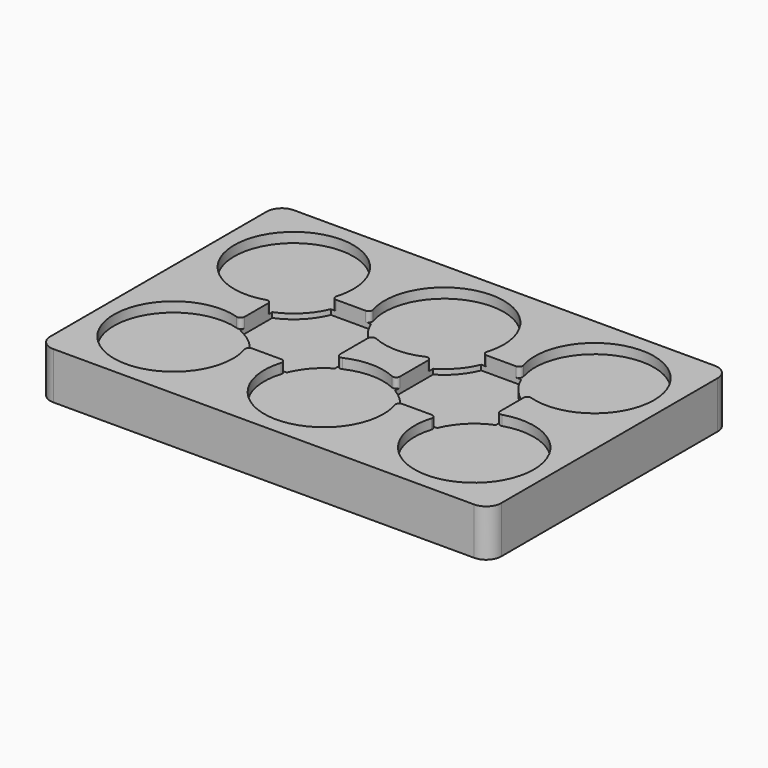
from build123d import *

# Parameters (mm, degrees)
F1_DEPTH = 15.875
F2_DEPTH = 3.3528
F3_DEPTH = 5.08
F4_R     = 5.08
F5_R     = 1.27


with BuildPart() as f1:
    # F0 (on Top) → F1 (new body)
    with BuildSketch(Plane.XY):
        Polygon((0, 25.4), (0, 0), (33.02, 0), (66.04, 0), (76.2, 0), (86.36, 0), (119.38, 0), (152.4, 0), (152.4, 33.02), (152.4, 68.58), (152.4, 101.6), (127, 101.6), (76.2, 101.6), (25.4, 101.6), (0, 101.6), (0, 76.2), align=None)
        with BuildLine():
            ThreePointArc((44.0314886751, 33.02), (45.151447055, 29.2829253769), (45.5295, 25.4))
            ThreePointArc((45.5295, 25.4), (8.6879749843, 14.179260714), (33.02, 44.0314886751))
            Line((33.02, 44.0314886751), (33.02, 57.5685113249))
            ThreePointArc((33.02, 57.5685113249), (8.6879749843, 87.420739286), (45.5295, 76.2))
            ThreePointArc((45.5295, 76.2), (45.151447055, 72.3170746231), (44.0314886751, 68.58))
            Line((44.0314886751, 68.58), (57.5685113249, 68.58))
            ThreePointArc((57.5685113249, 68.58), (72.3170746231, 95.951447055), (96.3295, 76.2))
            ThreePointArc((96.3295, 76.2), (95.951447055, 72.3170746231), (94.8314886751, 68.58))
            Line((94.8314886751, 68.58), (108.3685113249, 68.58))
            ThreePointArc((108.3685113249, 68.58), (123.1170746231, 95.951447055), (147.1295, 76.2))
            ThreePointArc((147.1295, 76.2), (138.220739286, 59.4879749843), (119.38, 57.5685113249))
            Line((119.38, 57.5685113249), (119.38, 44.0314886751))
            ThreePointArc((119.38, 44.0314886751), (138.220739286, 42.1120250157), (147.1295, 25.4))
            ThreePointArc((147.1295, 25.4), (123.1170746231, 5.648552945), (108.3685113249, 33.02))
            Line((108.3685113249, 33.02), (94.8314886751, 33.02))
            ThreePointArc((94.8314886751, 33.02), (95.951447055, 29.2829253769), (96.3295, 25.4))
            ThreePointArc((96.3295, 25.4), (72.3170746231, 5.648552945), (57.5685113249, 33.02))
            Line((57.5685113249, 33.02), (44.0314886751, 33.02))
        make_face(mode=Mode.SUBTRACT)
        with BuildLine():
            ThreePointArc((45.5295, 76.2), (8.6879749843, 87.420739286), (33.02, 57.5685113249))
            ThreePointArc((33.02, 57.5685113249), (39.6337059519, 61.9662940481), (44.0314886751, 68.58))
            ThreePointArc((44.0314886751, 68.58), (45.151447055, 72.3170746231), (45.5295, 76.2))
        make_face()
        with BuildLine():
            ThreePointArc((33.02, 44.0314886751), (8.6879749843, 14.179260714), (45.5295, 25.4))
            ThreePointArc((45.5295, 25.4), (45.151447055, 29.2829253769), (44.0314886751, 33.02))
            ThreePointArc((44.0314886751, 33.02), (39.6337059519, 39.6337059519), (33.02, 44.0314886751))
        make_face()
        with BuildLine():
            ThreePointArc((66.04, 42.7773176943), (61.0000405534, 38.5968936902), (57.5685113249, 33.02))
            ThreePointArc((57.5685113249, 33.02), (72.3170746231, 5.648552945), (96.3295, 25.4))
            ThreePointArc((96.3295, 25.4), (95.951447055, 29.2829253769), (94.8314886751, 33.02))
            ThreePointArc((94.8314886751, 33.02), (91.3999594466, 38.5968936902), (86.36, 42.7773176943))
            ThreePointArc((86.36, 42.7773176943), (76.2, 45.5295), (66.04, 42.7773176943))
        make_face()
        with BuildLine():
            ThreePointArc((147.1295, 76.2), (123.1170746231, 95.951447055), (108.3685113249, 68.58))
            ThreePointArc((108.3685113249, 68.58), (112.7662940481, 61.9662940481), (119.38, 57.5685113249))
            ThreePointArc((119.38, 57.5685113249), (138.220739286, 59.4879749843), (147.1295, 76.2))
        make_face()
        with BuildLine():
            ThreePointArc((57.5685113249, 68.58), (61.0000405534, 63.0031063098), (66.04, 58.8226823057))
            ThreePointArc((66.04, 58.8226823057), (76.2, 56.0705), (86.36, 58.8226823057))
            ThreePointArc((86.36, 58.8226823057), (91.3999594466, 63.0031063098), (94.8314886751, 68.58))
            ThreePointArc((94.8314886751, 68.58), (95.951447055, 72.3170746231), (96.3295, 76.2))
            ThreePointArc((96.3295, 76.2), (72.3170746231, 95.951447055), (57.5685113249, 68.58))
        make_face()
        with BuildLine():
            ThreePointArc((119.38, 44.0314886751), (112.7662940481, 39.6337059519), (108.3685113249, 33.02))
            ThreePointArc((108.3685113249, 33.02), (123.1170746231, 5.648552945), (147.1295, 25.4))
            ThreePointArc((147.1295, 25.4), (138.220739286, 42.1120250157), (119.38, 44.0314886751))
        make_face()
        with BuildLine():
            ThreePointArc((33.02, 44.0314886751), (39.6337059519, 39.6337059519), (44.0314886751, 33.02))
            Line((44.0314886751, 33.02), (57.5685113249, 33.02))
            ThreePointArc((57.5685113249, 33.02), (61.0000405534, 38.5968936902), (66.04, 42.7773176943))
            Line((66.04, 42.7773176943), (66.04, 58.8226823057))
            ThreePointArc((66.04, 58.8226823057), (61.0000405534, 63.0031063098), (57.5685113249, 68.58))
            Line((57.5685113249, 68.58), (44.0314886751, 68.58))
            ThreePointArc((44.0314886751, 68.58), (39.6337059519, 61.9662940481), (33.02, 57.5685113249))
            Line((33.02, 57.5685113249), (33.02, 44.0314886751))
        make_face()
        with BuildLine():
            Line((86.36, 58.8226823057), (86.36, 42.7773176943))
            ThreePointArc((86.36, 42.7773176943), (91.3999594466, 38.5968936902), (94.8314886751, 33.02))
            Line((94.8314886751, 33.02), (108.3685113249, 33.02))
            ThreePointArc((108.3685113249, 33.02), (112.7662940481, 39.6337059519), (119.38, 44.0314886751))
            Line((119.38, 44.0314886751), (119.38, 57.5685113249))
            ThreePointArc((119.38, 57.5685113249), (112.7662940481, 61.9662940481), (108.3685113249, 68.58))
            Line((108.3685113249, 68.58), (94.8314886751, 68.58))
            ThreePointArc((94.8314886751, 68.58), (91.3999594466, 63.0031063098), (86.36, 58.8226823057))
        make_face()
        with BuildLine():
            Line((66.04, 58.8226823057), (66.04, 42.7773176943))
            ThreePointArc((66.04, 42.7773176943), (76.2, 45.5295), (86.36, 42.7773176943))
            Line((86.36, 42.7773176943), (86.36, 58.8226823057))
            ThreePointArc((86.36, 58.8226823057), (76.2, 56.0705), (66.04, 58.8226823057))
        make_face()
    extrude(amount=-F1_DEPTH)

    # F0 (on Top) → F2 (cut)
    with BuildSketch(Plane.XY):
        with BuildLine():
            ThreePointArc((45.5295, 76.2), (8.6879749843, 87.420739286), (33.02, 57.5685113249))
            ThreePointArc((33.02, 57.5685113249), (39.6337059519, 61.9662940481), (44.0314886751, 68.58))
            ThreePointArc((44.0314886751, 68.58), (45.151447055, 72.3170746231), (45.5295, 76.2))
        make_face()
        with BuildLine():
            ThreePointArc((33.02, 44.0314886751), (8.6879749843, 14.179260714), (45.5295, 25.4))
            ThreePointArc((45.5295, 25.4), (45.151447055, 29.2829253769), (44.0314886751, 33.02))
            ThreePointArc((44.0314886751, 33.02), (39.6337059519, 39.6337059519), (33.02, 44.0314886751))
        make_face()
        with BuildLine():
            ThreePointArc((66.04, 42.7773176943), (61.0000405534, 38.5968936902), (57.5685113249, 33.02))
            ThreePointArc((57.5685113249, 33.02), (72.3170746231, 5.648552945), (96.3295, 25.4))
            ThreePointArc((96.3295, 25.4), (95.951447055, 29.2829253769), (94.8314886751, 33.02))
            ThreePointArc((94.8314886751, 33.02), (91.3999594466, 38.5968936902), (86.36, 42.7773176943))
            ThreePointArc((86.36, 42.7773176943), (76.2, 45.5295), (66.04, 42.7773176943))
        make_face()
        with BuildLine():
            ThreePointArc((57.5685113249, 68.58), (61.0000405534, 63.0031063098), (66.04, 58.8226823057))
            ThreePointArc((66.04, 58.8226823057), (76.2, 56.0705), (86.36, 58.8226823057))
            ThreePointArc((86.36, 58.8226823057), (91.3999594466, 63.0031063098), (94.8314886751, 68.58))
            ThreePointArc((94.8314886751, 68.58), (95.951447055, 72.3170746231), (96.3295, 76.2))
            ThreePointArc((96.3295, 76.2), (72.3170746231, 95.951447055), (57.5685113249, 68.58))
        make_face()
        with BuildLine():
            ThreePointArc((147.1295, 76.2), (123.1170746231, 95.951447055), (108.3685113249, 68.58))
            ThreePointArc((108.3685113249, 68.58), (112.7662940481, 61.9662940481), (119.38, 57.5685113249))
            ThreePointArc((119.38, 57.5685113249), (138.220739286, 59.4879749843), (147.1295, 76.2))
        make_face()
        with BuildLine():
            ThreePointArc((119.38, 44.0314886751), (112.7662940481, 39.6337059519), (108.3685113249, 33.02))
            ThreePointArc((108.3685113249, 33.02), (123.1170746231, 5.648552945), (147.1295, 25.4))
            ThreePointArc((147.1295, 25.4), (138.220739286, 42.1120250157), (119.38, 44.0314886751))
        make_face()
    extrude(amount=-F2_DEPTH, mode=Mode.SUBTRACT)

    # F0 (on Top) → F3 (cut)
    with BuildSketch(Plane.XY):
        with BuildLine():
            ThreePointArc((33.02, 44.0314886751), (39.6337059519, 39.6337059519), (44.0314886751, 33.02))
            Line((44.0314886751, 33.02), (57.5685113249, 33.02))
            ThreePointArc((57.5685113249, 33.02), (61.0000405534, 38.5968936902), (66.04, 42.7773176943))
            Line((66.04, 42.7773176943), (66.04, 58.8226823057))
            ThreePointArc((66.04, 58.8226823057), (61.0000405534, 63.0031063098), (57.5685113249, 68.58))
            Line((57.5685113249, 68.58), (44.0314886751, 68.58))
            ThreePointArc((44.0314886751, 68.58), (39.6337059519, 61.9662940481), (33.02, 57.5685113249))
            Line((33.02, 57.5685113249), (33.02, 44.0314886751))
        make_face()
        with BuildLine():
            Line((86.36, 58.8226823057), (86.36, 42.7773176943))
            ThreePointArc((86.36, 42.7773176943), (91.3999594466, 38.5968936902), (94.8314886751, 33.02))
            Line((94.8314886751, 33.02), (108.3685113249, 33.02))
            ThreePointArc((108.3685113249, 33.02), (112.7662940481, 39.6337059519), (119.38, 44.0314886751))
            Line((119.38, 44.0314886751), (119.38, 57.5685113249))
            ThreePointArc((119.38, 57.5685113249), (112.7662940481, 61.9662940481), (108.3685113249, 68.58))
            Line((108.3685113249, 68.58), (94.8314886751, 68.58))
            ThreePointArc((94.8314886751, 68.58), (91.3999594466, 63.0031063098), (86.36, 58.8226823057))
        make_face()
    extrude(amount=-F3_DEPTH, mode=Mode.SUBTRACT)

    # F4
    f4_edges = [f1.edges().sort_by_distance(p)[0] for p in [
        (0, 0, -7.9375),
        (152.4, 0, -7.9375),
        (152.4, 101.6, -7.9375),
        (0, 101.6, -7.9375),
    ]]
    fillet(f4_edges, radius=F4_R)

    # F5
    f5_edges = [f1.edges().sort_by_distance(p)[0] for p in [
        (86.36, 58.822682, -1.6764),
        (94.831489, 68.58, -1.6764),
        (108.368511, 68.58, -1.6764),
        (119.38, 57.568511, -1.6764),
        (119.38, 44.031489, -1.6764),
        (108.368511, 33.02, -1.6764),
        (94.831489, 33.02, -1.6764),
        (86.36, 42.777318, -1.6764),
        (66.04, 42.777318, -1.6764),
        (57.568511, 33.02, -1.6764),
        (44.031489, 33.02, -1.6764),
        (33.02, 44.031489, -1.6764),
        (33.02, 57.568511, -1.6764),
        (44.031489, 68.58, -1.6764),
        (57.568511, 68.58, -1.6764),
        (66.04, 58.822682, -1.6764),
    ]]
    fillet(f5_edges, radius=F5_R)


solid = f1.part
